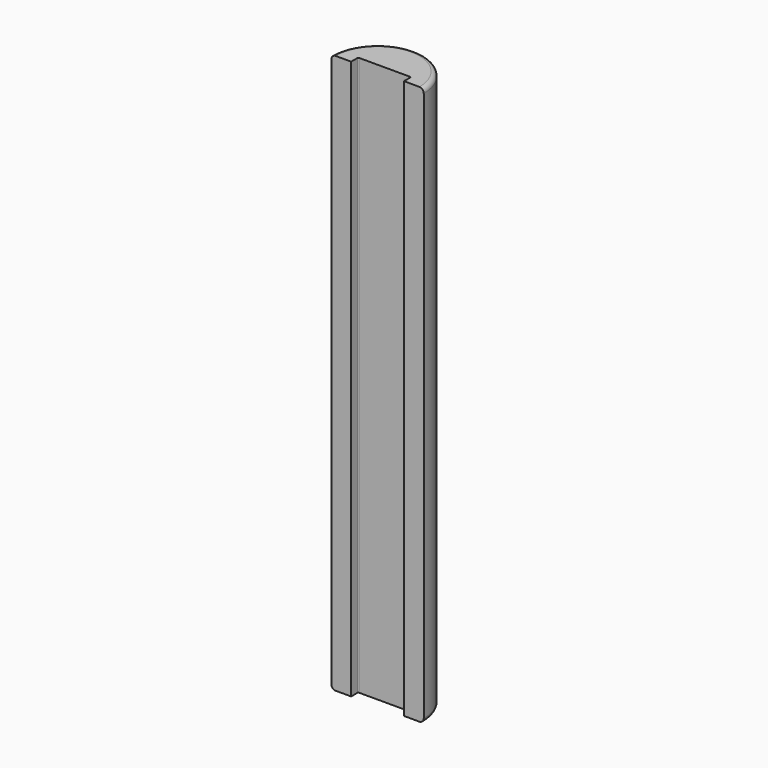
from build123d import *

# Parameters (mm, degrees)
F0_W     = 10.5
F0_H     = 127
F1_ANGLE = 180
F3_DEPTH = 127
F4_R     = 1
F5_R     = 1


with BuildPart() as f1:
    # F0 (on Front) → F1 (revolve)
    with BuildSketch(Plane.XZ):
        Rectangle(F0_W, F0_H)
    revolve(axis=Axis((5.25, 0, 0), (0, 0, -1)), revolution_arc=F1_ANGLE)

    # F2 (on face) → F3 (cut)
    with BuildSketch(Plane.XY.offset(63.5)):
        with BuildLine():
            Line((-0.75, 0), (5.25, 0))
            Line((5.25, 0), (11.25, 0))
            Line((11.25, 0), (11.25, 1.8))
            ThreePointArc((11.25, 1.8), (11.1914213562, 1.9414213562), (11.05, 2))
            Line((11.05, 2), (-0.55, 2))
            ThreePointArc((-0.55, 2), (-0.6914213562, 1.9414213562), (-0.75, 1.8))
            Line((-0.75, 1.8), (-0.75, 0))
        make_face()
    extrude(amount=-F3_DEPTH, mode=Mode.SUBTRACT)

    # F4
    f4_edges = [f1.edges().sort_by_distance(p)[0] for p in [
        (5.25, 10.5, 63.5),
    ]]
    fillet(f4_edges, radius=F4_R)

    # F5
    f5_edges = [f1.edges().sort_by_distance(p)[0] for p in [
        (5.25, 10.5, -63.5),
    ]]
    fillet(f5_edges, radius=F5_R)


solid = f1.part
